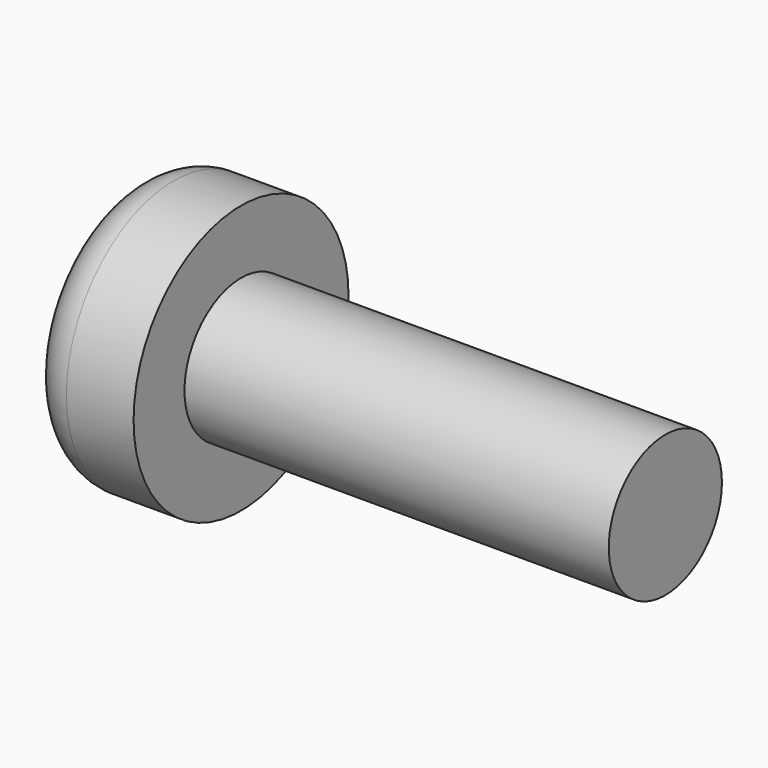
from build123d import *

# Parameters (mm, degrees)
F0_W     = 1.55
F0_H     = 1.9
F2_R     = 0.6
F3_R     = 0.875
F4_DEPTH = 0.2
F5_R     = 1
F6_DEPTH = 6
F8_DEPTH = 0.64
F9_R     = 0.1
F10_R    = 0.25


with BuildPart() as f1:
    # F0 (on Top) → F1 (revolve)
    with BuildSketch(Plane.XY):
        with Locations((5.8241569564, 4.3333681053)):
            Rectangle(F0_W, F0_H)
    revolve(axis=Axis((5.8241569564, 3.3833681053, 0), (-1, 0, 0)))

    # F2
    f2_edges = [f1.edges().sort_by_distance(p)[0] for p in [
        (5.049157, 1.483368, 0),
    ]]
    fillet(f2_edges, radius=F2_R)

    # F3 (on face) → F4 (cut)
    with BuildSketch(Plane(origin=(5.0491569564, 0, 0), x_dir=(0, -1, 0), z_dir=(-1, 0, 0))):
        with Locations((-3.3833681053, 0)):
            Circle(F3_R)
    extrude(amount=-F4_DEPTH, mode=Mode.SUBTRACT)

    # F5 (on face) → F6 (join)
    with BuildSketch(Plane.YZ.offset(6.5991569564)):
        with Locations((3.3833681053, 0)):
            Circle(F5_R)
    extrude(amount=F6_DEPTH)

    # F7 (on face) → F8 (cut)
    with BuildSketch(Plane(origin=(5.2491569564, 0, 0), x_dir=(0, -1, 0), z_dir=(-1, 0, 0))):
        Polygon((-3.1333681053, 0.4330127019), (-3.3833681053, 0.84), (-3.6333681053, 0.4330127019), (-4.1108294444, 0.42), (-3.8833681053, 0), (-4.1108294444, -0.42), (-3.6333681053, -0.4330127019), (-3.3833681053, -0.84), (-3.1333681053, -0.4330127019), (-2.6559067661, -0.42), (-2.8833681053, 0), (-2.6559067661, 0.42), align=None)
    extrude(amount=-F8_DEPTH, mode=Mode.SUBTRACT)

    # F9
    f9_edges = [f1.edges().sort_by_distance(p)[0] for p in [
        (5.569157, 3.383368, 0.84),
        (5.569157, 4.110829, 0.42),
        (5.569157, 4.110829, -0.42),
        (5.569157, 3.383368, -0.84),
        (5.569157, 2.655907, -0.42),
        (5.569157, 2.655907, 0.42),
    ]]
    fillet(f9_edges, radius=F9_R)

    # F10
    f10_edges = [f1.edges().sort_by_distance(p)[0] for p in [
        (5.569157, 3.633368, 0.433013),
        (5.569157, 3.883368, 0),
        (5.569157, 3.633368, -0.433013),
        (5.569157, 3.133368, 0.433013),
        (5.569157, 3.133368, -0.433013),
        (5.569157, 2.883368, 0),
    ]]
    fillet(f10_edges, radius=F10_R)


solid = f1.part
